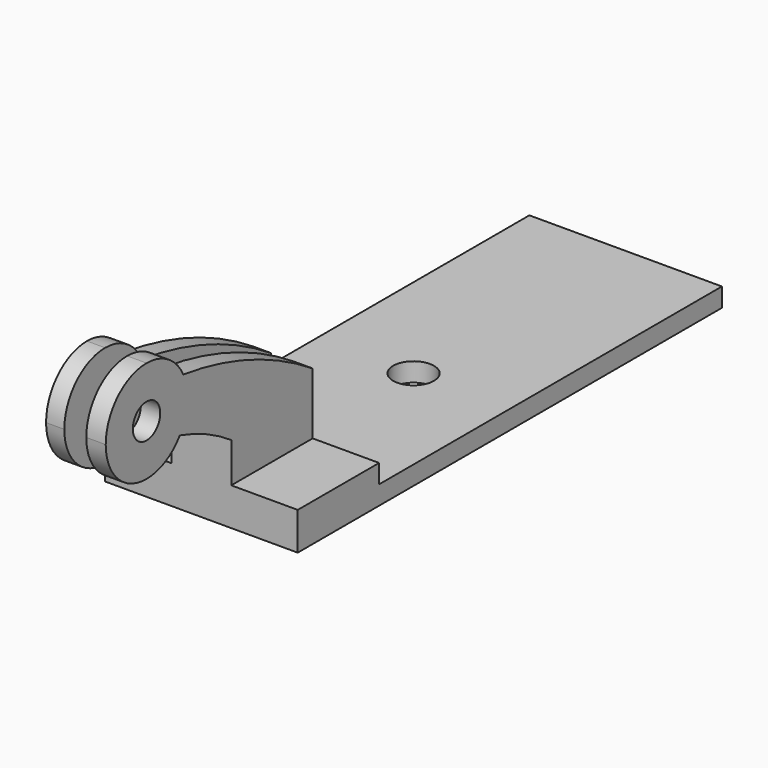
from build123d import *

# Parameters (mm, degrees)
F0_W      = 30.6736361235
F0_H      = 84.459155798
F0_R      = 3.25
F1_DEPTH  = 3
F2_W      = 30.6736361235
F2_H      = 16.2
F3_DEPTH  = 3
F4_W      = 9.5
F4_H      = 16.2
F5_DEPTH  = 24
F6_W      = 3.5
F6_H      = 16.2452395454
F7_DEPTH  = 18
F9_DEPTH  = 25
F10_R     = 2.7291125689
F11_DEPTH = 20.0878180618


with BuildPart() as f1:
    # F0 (on Top) → F1 (new body)
    with BuildSketch(Plane.XY):
        Rectangle(F0_W, F0_H)
        Circle(F0_R, mode=Mode.SUBTRACT)
    extrude(amount=F1_DEPTH)

    # F2 (on face) → F3 (join)
    with BuildSketch(Plane.XY.offset(3)):
        with Locations((0, -34.129577899)):
            Rectangle(F2_W, F2_H)
    extrude(amount=F3_DEPTH)

    # F4 (on face) → F5 (join)
    with BuildSketch(Plane.XY.offset(6)):
        with Locations((0, -34.129577899)):
            Rectangle(F4_W, F4_H)
    extrude(amount=F5_DEPTH)

    # F6 (on face) → F7 (cut)
    with BuildSketch(Plane(origin=(0, -26.029577899, 0), x_dir=(-1, 0, 0), z_dir=(0, 1, 0))):
        with Locations((0.0963514363, 21.8773802273)):
            Rectangle(F6_W, F6_H)
    extrude(amount=-F7_DEPTH, mode=Mode.SUBTRACT)

    # F8 (on face) → F9 (join)
    with BuildSketch(Plane.XZ.offset(42.229577899)):
        Polygon((-1.8463514363, 30), (-4.75, 30), (-4.75, 12.3551307052), (-1.8463514363, 12.3551307052), (-1.8463514363, 13.7547604546), align=None)
        Polygon((4.75, 30), (1.6536485637, 30), (1.6536485637, 13.7547604546), (1.6540503129, 13.7547604546), (1.6540503129, 12.3551307052), (4.75, 12.3551307052), align=None)
    extrude(amount=F9_DEPTH)

    # F10 (on face) → F11 (cut, through all)
    with BuildSketch(Plane(origin=(-4.75, 0, 0), x_dir=(0, -1, 0), z_dir=(-1, 0, 0))):
        with BuildLine():
            Line((67.229577899, 30), (59.1030751607, 30))
            ThreePointArc((59.1030751607, 30), (64.8493803543, 27.6198024553), (67.229577899, 21.8734972618))
            Line((67.229577899, 21.8734972618), (67.229577899, 30))
        make_face()
        with BuildLine():
            Line((67.229577899, 12.3551307052), (67.229577899, 21.8734972618))
            ThreePointArc((67.229577899, 21.8734972618), (61.57093405, 14.1307768576), (52.4754527388, 17.1708737613))
            ThreePointArc((52.4754527388, 17.1708737613), (47.1597307325, 15.1731667126), (42.229577899, 12.3551307052))
            Line((42.229577899, 12.3551307052), (67.229577899, 12.3551307052))
        make_face()
        with Locations((59.1030751607, 21.8734972618)):
            Circle(F10_R)
        with BuildLine():
            Line((46.629577899, 30), (42.229577899, 30))
            Line((42.229577899, 30), (26.029577899, 30))
            Line((26.029577899, 30), (26.029577899, 28.4473763433))
            Line((26.029577899, 28.4473763433), (26.029577899, 15.8075261861))
            ThreePointArc((26.029577899, 15.8075261861), (38.3769053646, 22.0569473273), (51.7975745776, 25.4329505884))
            ThreePointArc((51.7975745776, 25.4329505884), (54.7952834092, 28.7642865475), (59.1030751607, 30))
            Line((59.1030751607, 30), (46.629577899, 30))
        make_face()
    extrude(amount=-F11_DEPTH, mode=Mode.SUBTRACT)


solid = f1.part
